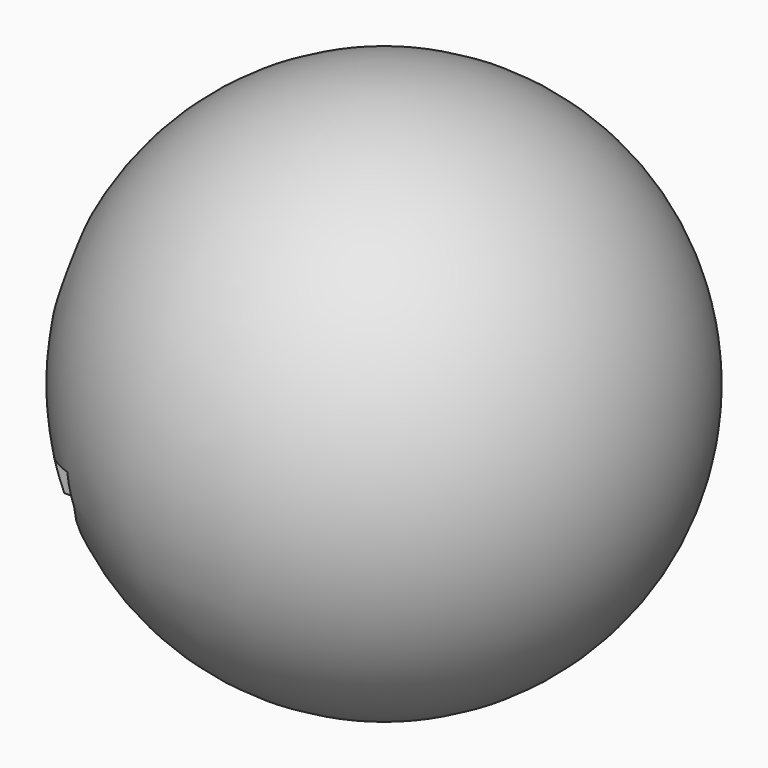
from build123d import *

# Parameters (mm, degrees)
F3_DEPTH = 96.774


with BuildPart() as f1:
    # F0 (on Right) → F1 (revolve)
    with BuildSketch(Plane.YZ):
        with BuildLine():
            Line((0, 40.851373), (0, 46.056358))
            ThreePointArc((0, 46.056358), (-46.056358, 0), (0, -46.056358))
            Line((0, -46.056358), (0, -40.851373))
            ThreePointArc((0, -40.851373), (-40.851373, 0), (0, 40.851373))
        make_face()
    revolve(axis=Axis((0, 0, 0), (0, 0, -1)))

    # F2 (on Right) → F3 (cut)
    with BuildSketch(Plane.YZ):
        with BuildLine():
            Line((16.023596, -3.039083), (21.411188, 4.818909))
            ThreePointArc((21.411188, 4.818909), (16.728984, 20.457276), (12.60009, 4.663802))
            Line((12.60009, 4.663802), (16.023596, -3.039083))
        make_face()
        Polygon((8.403815, -17.871678), (0, -8.289249), (-8.403815, -17.871678), (0, -17.871678), align=None)
        with BuildLine():
            Line((2.246329, -26.7301), (0, -29.67854))
            Line((0, -29.67854), (-2.246329, -26.7301))
            Line((-2.246329, -26.7301), (-5.966321, -29.564251))
            Line((-5.966321, -29.564251), (-10.19208, -24.017691))
            Line((-10.19208, -24.017691), (-13.962149, -26.889995))
            Line((-13.962149, -26.889995), (-15.514309, -20.464664))
            Line((-15.514309, -20.464664), (-18.094193, -24.017691))
            Line((-18.094193, -24.017691), (-19.936968, -19.911833))
            Line((-19.936968, -19.911833), (-21.411188, -23.228828))
            Line((-21.411188, -23.228828), (-24.359627, -15.304895))
            Line((-24.359627, -15.304895), (-27.069951, -16.313387))
            Line((-27.069951, -16.313387), (-27.676621, -13.093566))
            Line((-27.676621, -13.093566), (-31.614962, -13.835618))
            Line((-31.614962, -13.835618), (-31.614962, -8.855184))
            Line((-31.614962, -8.855184), (-34.549884, -7.550773))
            Line((-34.549884, -7.550773), (-38.670481, -5.719396))
            Line((-38.670481, -5.719396), (-37.627608, -11.435068))
            ThreePointArc((-37.627608, -11.435068), (-32.125537, -19.298328), (-25.221294, -25.96429))
            ThreePointArc((-25.221294, -25.96429), (-13.357962, -32.730942), (0, -35.57542))
            ThreePointArc((0, -35.57542), (13.357962, -32.730942), (25.221294, -25.96429))
            ThreePointArc((25.221294, -25.96429), (32.125537, -19.298328), (37.627608, -11.435068))
            Line((37.627608, -11.435068), (38.670481, -5.719396))
            Line((38.670481, -5.719396), (34.549884, -7.550773))
            Line((34.549884, -7.550773), (31.614962, -8.855184))
            Line((31.614962, -8.855184), (31.614962, -13.835618))
            Line((31.614962, -13.835618), (27.676621, -13.093566))
            Line((27.676621, -13.093566), (27.069951, -16.313387))
            Line((27.069951, -16.313387), (24.359627, -15.304895))
            Line((24.359627, -15.304895), (21.411188, -23.228828))
            Line((21.411188, -23.228828), (19.936968, -19.911833))
            Line((19.936968, -19.911833), (18.094193, -24.017691))
            Line((18.094193, -24.017691), (15.514309, -20.464664))
            Line((15.514309, -20.464664), (13.962149, -26.889995))
            Line((13.962149, -26.889995), (10.19208, -24.017691))
            Line((10.19208, -24.017691), (5.966321, -29.564251))
            Line((5.966321, -29.564251), (2.246329, -26.7301))
        make_face()
        with BuildLine():
            ThreePointArc((-12.60009, 4.663802), (-16.728984, 20.457276), (-21.411188, 4.818909))
            Line((-21.411188, 4.818909), (-16.023596, -3.039083))
            Line((-16.023596, -3.039083), (-12.60009, 4.663802))
        make_face()
    extrude(amount=-F3_DEPTH, mode=Mode.SUBTRACT)


solid = f1.part
